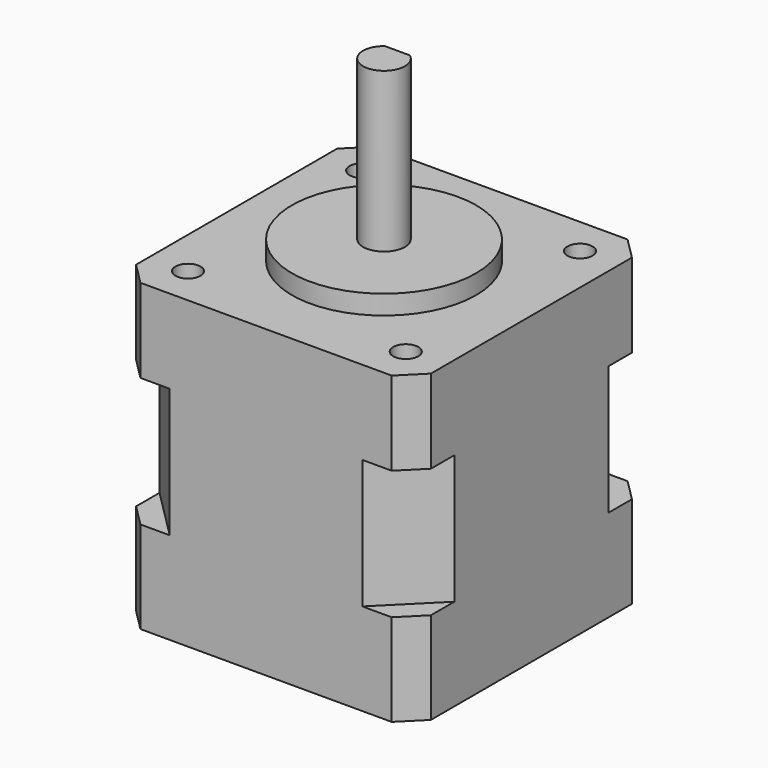
from build123d import *

# Parameters (mm, degrees)
F0_W      = 35.2
F0_H      = 35.2
F1_DEPTH  = 7.7
F2_SIZE   = 6.1
F3_W      = 35.2
F3_H      = 35.2
F4_DEPTH  = 10
F5_SIZE   = 2.6
F7_DEPTH  = 11
F8_R      = 11
F9_DEPTH  = 2.3
F10_R     = 2.5
F11_DEPTH = 19
F12_W     = 5.253729
F12_H     = 0.933404
F13_DEPTH = 19
F14_R     = 1.5
F15_DEPTH = 6


with BuildPart() as f1:
    # F0 (on Top) → F1 (new body, symmetric)
    with BuildSketch(Plane.XY):
        Rectangle(F0_W, F0_H)
    extrude(amount=F1_DEPTH, both=True)

    # F2
    f2_edges = [f1.edges().sort_by_distance(p)[0] for p in [
        (-17.6, -17.6, 0),
        (17.6, -17.6, 0),
        (17.6, 17.6, 0),
        (-17.6, 17.6, 0),
    ]]
    chamfer(f2_edges, length=F2_SIZE)

    # F3 (on face) → F4 (join)
    with BuildSketch(Plane.XY.offset(7.7)):
        Rectangle(F3_W, F3_H)
    extrude(amount=F4_DEPTH)

    # F5
    f5_edges = [f1.edges().sort_by_distance(p)[0] for p in [
        (-17.6, -17.6, 12.7),
        (17.6, -17.6, 12.7),
        (17.6, 17.6, 12.7),
        (-17.6, 17.6, 12.7),
    ]]
    chamfer(f5_edges, length=F5_SIZE)

    # F6 (on face) → F7 (join)
    with BuildSketch(Plane(origin=(0, 0, -7.7), x_dir=(1, 0, 0), z_dir=(0, 0, -1))):
        Polygon((-15, -17.6), (15, -17.6), (17.6, -15), (17.6, 15), (15, 17.6), (-15, 17.6), (-17.6, 15), (-17.6, -15), align=None)
    extrude(amount=F7_DEPTH)

    # F8 (on face) → F9 (join)
    with BuildSketch(Plane.XY.offset(17.7)):
        Circle(F8_R)
    extrude(amount=F9_DEPTH)

    # F10 (on face) → F11 (join)
    with BuildSketch(Plane.XY.offset(20)):
        Circle(F10_R)
    extrude(amount=F11_DEPTH)

    # F12 (on face) → F13 (cut)
    with BuildSketch(Plane.XY.offset(39)):
        with Locations((-0.006502, 2.466702)):
            Rectangle(F12_W, F12_H)
    extrude(amount=-F13_DEPTH, mode=Mode.SUBTRACT)

    # F14 (on face) → F15 (cut)
    with BuildSketch(Plane.XY.offset(17.7)):
        with Locations((-13, 13)):
            Circle(F14_R)
        with Locations((13, 13)):
            Circle(F14_R)
        with Locations((-13, -13)):
            Circle(F14_R)
        with Locations((13, -13)):
            Circle(F14_R)
    extrude(amount=-F15_DEPTH, mode=Mode.SUBTRACT)


solid = f1.part
